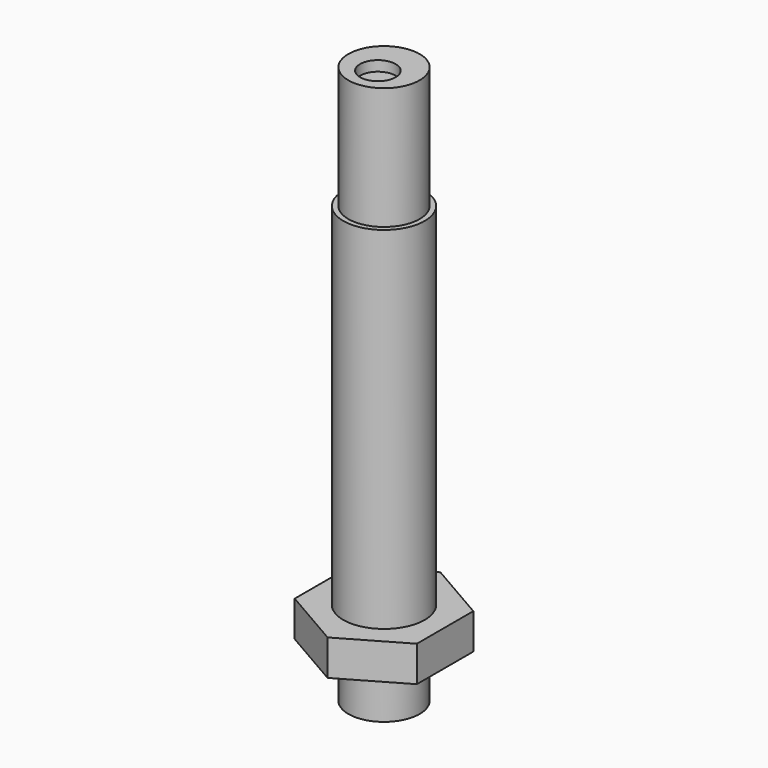
from build123d import *

# Parameters (mm, degrees)
F0_W     = 3.5
F0_H     = 4.8
F0_H_2   = 12
F2_R     = 1.75
F3_DEPTH = 1
F4_START = -46.5
F2_R_2   = 4
F4_DEPTH = 3.5


with BuildPart() as f1:
    # F0 (on Front) → F1 (revolve)
    with BuildSketch(Plane.XZ):
        Polygon((-3.5, 0), (0, 0), (0, 38), (-3.5, 38), (-4, 38), (-4, 0), align=None)
        with Locations((-1.75, -2.4)):
            Rectangle(F0_W, F0_H)
        with Locations((-1.75, 44)):
            Rectangle(F0_W, F0_H_2)
    revolve(axis=Axis((0, 0, 19), (0, 0, 1)))

    # F2 (on face) → F3 (cut)
    with BuildSketch(Plane.XY.offset(50)):
        with Locations((0, -0.75)):
            Circle(F2_R)
    extrude(amount=-F3_DEPTH, mode=Mode.SUBTRACT)


with BuildPart() as f4:
    # F2 (on face) → F4 (new body)
    with BuildSketch(Plane.XY.offset(50).offset(F4_START)):
        Polygon((6, -3.4641016151), (6, 3.4641016151), (0, 6.9282032303), (-6, 3.4641016151), (-6, -3.4641016151), (0, -6.9282032303), align=None)
        Circle(F2_R_2, mode=Mode.SUBTRACT)
    extrude(amount=-F4_DEPTH)


solid = Compound([f1.part, f4.part])
